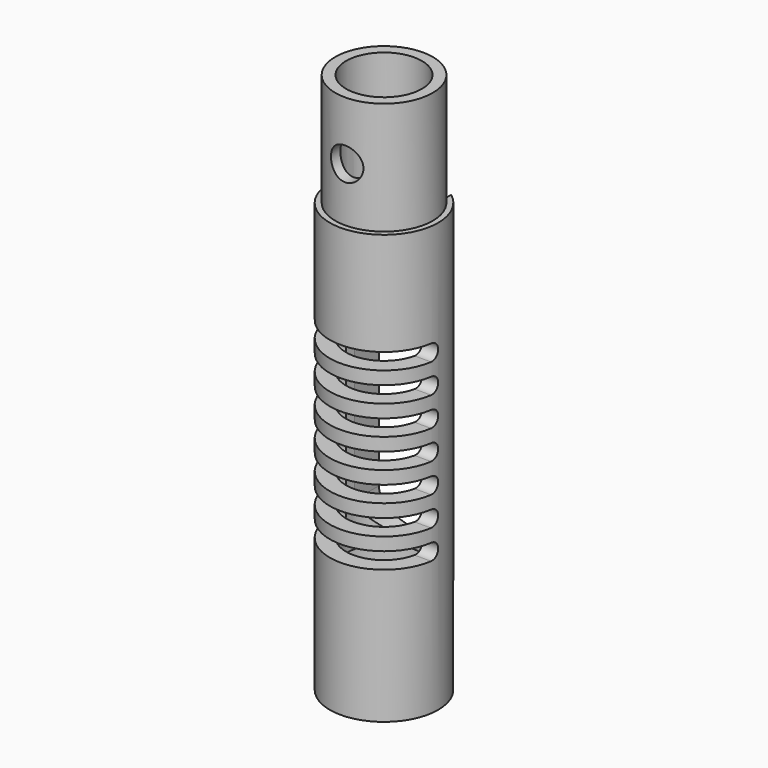
from build123d import *

# Parameters (mm, degrees)
F0_R      = 15.875
F1_DEPTH  = 158.75
F3_DEPTH  = 25.4
F4_R      = 14.2875
F5_DEPTH  = 31.75
F6_R      = 11.1125
F7_DEPTH  = 158.7510001
F9_DEPTH  = 15.8760001
F10_R     = 19.05
F10_R_2   = 14.2875
F11_DEPTH = 33.02
F12_R     = 4.7625
F13_DEPTH = 15.8760001
F14_R     = 3.175
F15_DEPTH = 15.8760001


with BuildPart() as f1:
    # F0 (on Top) → F1 (new body)
    with BuildSketch(Plane.XY):
        Circle(F0_R)
    extrude(amount=F1_DEPTH)

    # F2 (on Right) → F3 (cut, symmetric)
    with BuildSketch(Plane.YZ):
        with BuildLine():
            Line((-38.3608061526, 44.05122), (-38.3608061526, 39.28872))
            Line((-38.3608061526, 39.28872), (-2.38125, 39.28872))
            ThreePointArc((-2.38125, 39.28872), (0, 41.66997), (-2.38125, 44.05122))
            Line((-2.38125, 44.05122), (-38.3608061526, 44.05122))
        make_face()
        with BuildLine():
            Line((-38.3608061526, 47.86122), (-2.38125, 47.86122))
            ThreePointArc((-2.38125, 47.86122), (0, 50.24247), (-2.38125, 52.62372))
            Line((-2.38125, 52.62372), (-38.3608061526, 52.62372))
            Line((-38.3608061526, 52.62372), (-38.3608061526, 47.86122))
        make_face()
        with BuildLine():
            Line((-38.3608061526, 56.43372), (-2.38125, 56.43372))
            ThreePointArc((-2.38125, 56.43372), (0, 58.81497), (-2.38125, 61.19622))
            Line((-2.38125, 61.19622), (-38.3608061526, 61.19622))
            Line((-38.3608061526, 61.19622), (-38.3608061526, 56.43372))
        make_face()
        with BuildLine():
            Line((-38.3608061526, 65.00622), (-2.38125, 65.00622))
            ThreePointArc((-2.38125, 65.00622), (0, 67.38747), (-2.38125, 69.76872))
            Line((-2.38125, 69.76872), (-38.3608061526, 69.76872))
            Line((-38.3608061526, 69.76872), (-38.3608061526, 65.00622))
        make_face()
        with BuildLine():
            Line((-38.3608061526, 73.57872), (-2.38125, 73.57872))
            ThreePointArc((-2.38125, 73.57872), (0, 75.95997), (-2.38125, 78.34122))
            Line((-2.38125, 78.34122), (-38.3608061526, 78.34122))
            Line((-38.3608061526, 78.34122), (-38.3608061526, 73.57872))
        make_face()
        with BuildLine():
            Line((-38.3608061526, 82.15122), (-2.38125, 82.15122))
            ThreePointArc((-2.38125, 82.15122), (0, 84.53247), (-2.38125, 86.91372))
            Line((-2.38125, 86.91372), (-38.3608061526, 86.91372))
            Line((-38.3608061526, 86.91372), (-38.3608061526, 82.15122))
        make_face()
        with BuildLine():
            Line((-38.3608061526, 90.72372), (-2.38125, 90.72372))
            ThreePointArc((-2.38125, 90.72372), (0, 93.10497), (-2.38125, 95.48622))
            Line((-2.38125, 95.48622), (-38.3608061526, 95.48622))
            Line((-38.3608061526, 95.48622), (-38.3608061526, 90.72372))
        make_face()
    extrude(amount=F3_DEPTH, both=True, mode=Mode.SUBTRACT)

    # F4 (on Top) → F5 (cut)
    with BuildSketch(Plane.XY):
        Circle(F4_R)
    extrude(amount=F5_DEPTH, mode=Mode.SUBTRACT)

    # F6 (on face) → F7 (cut, through all)
    with BuildSketch(Plane.XY.offset(158.75)):
        Circle(F6_R)
    extrude(amount=-F7_DEPTH, mode=Mode.SUBTRACT)

    # F8 (on Front) → F9 (cut, through all)
    with BuildSketch(Plane.XZ):
        with BuildLine():
            Line((10.794998603, 44.45), (10.794998603, 120.65))
            ThreePointArc((10.794998603, 120.65), (-1.397e-06, 131.445), (-10.795001397, 120.65))
            Line((-10.795001397, 120.65), (-10.795001397, 44.45))
            ThreePointArc((-10.795001397, 44.45), (-1.397e-06, 33.655), (10.794998603, 44.45))
        make_face()
    extrude(amount=-F9_DEPTH, mode=Mode.SUBTRACT)

    # F10 (on face) → F11 (cut)
    with BuildSketch(Plane.XY.offset(158.75)):
        Circle(F10_R)
        Circle(F10_R_2, mode=Mode.SUBTRACT)
    extrude(amount=-F11_DEPTH, mode=Mode.SUBTRACT)

    # F12 (on Front) → F13 (cut, through all)
    with BuildSketch(Plane.XZ):
        with Locations((0, 141.605)):
            Circle(F12_R)
    extrude(amount=F13_DEPTH, mode=Mode.SUBTRACT)

    # F14 (on Front) → F15 (cut, through all)
    with BuildSketch(Plane.XZ):
        with Locations((0, 15.0622)):
            Circle(F14_R)
    extrude(amount=-F15_DEPTH, mode=Mode.SUBTRACT)


solid = f1.part
